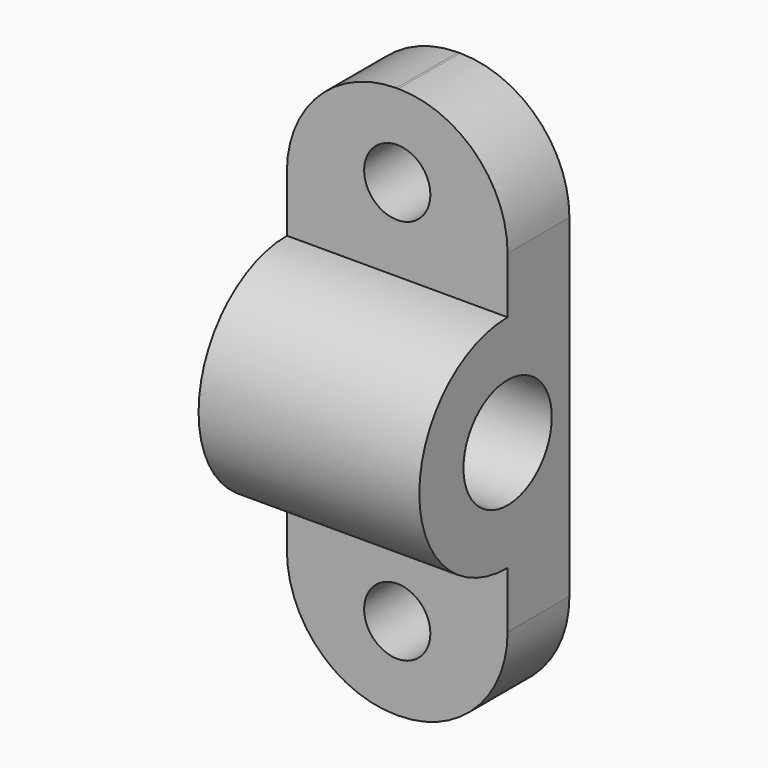
from build123d import *

# Parameters (mm, degrees)
PAD030_DEPTH             = 20
SKETCH021_R              = 5
POCKET001006_DEPTH       = 20.001
FILLET_R                 = 9.9
SKETCH024_R              = 3
POCKET002_DEPTH          = 7.001
CLONE076_ROLL_ANGLE      = 90
CLONE076_PLACEMENT_ANGLE = -90


with BuildPart() as part:
    # Sketch020 → Pad030 (new body)
    with BuildSketch(Plane.XY):
        with BuildLine():
            Line((18, 0), (25, 0))
            Line((25, 0), (25, 15))
            ThreePointArc((25, 15), (35, 25), (25, 35))
            Line((25, 35), (25, 50))
            Line((25, 50), (18, 50))
            Line((18, 50), (18, 0))
        make_face()
    extrude(amount=PAD030_DEPTH)

    # Sketch021 → Pocket001006 (cut, through all)
    with BuildSketch(Plane(origin=(0, 0, 0), x_dir=(1, 0, 0), z_dir=(0, 0, -1))):
        with Locations((25, -25)):
            Circle(SKETCH021_R)
    extrude(amount=-POCKET001006_DEPTH, mode=Mode.SUBTRACT)

    # Fillet
    fillet_edges = [part.edges().sort_by_distance(p)[0] for p in [
        (21.5, 0, 0),
        (21.5, 50, 0),
        (21.5, 50, 20),
        (21.5, 0, 20),
    ]]
    fillet(fillet_edges, radius=FILLET_R)

    # Sketch024 → Pocket002 (cut, through all)
    with BuildSketch(Plane.YZ.offset(25)):
        with Locations((7.5, 10)):
            Circle(SKETCH024_R)
        with Locations((42.5, 10)):
            Circle(SKETCH024_R)
    extrude(amount=-POCKET002_DEPTH, mode=Mode.SUBTRACT)


with BuildPart() as part_1:
    # Clone076 roll: moved
    add(part.part.rotate(Axis((0, 0, 0), (1, 0, 0)), CLONE076_ROLL_ANGLE))


with BuildPart() as part_2:
    # Clone076 placement: moved
    add(part_1.part.moved(Location((120.75, 1500, 0))).rotate(Axis((120.75, 1500, 0), (0, 0, 1)), CLONE076_PLACEMENT_ANGLE))


solid = part_2.part
